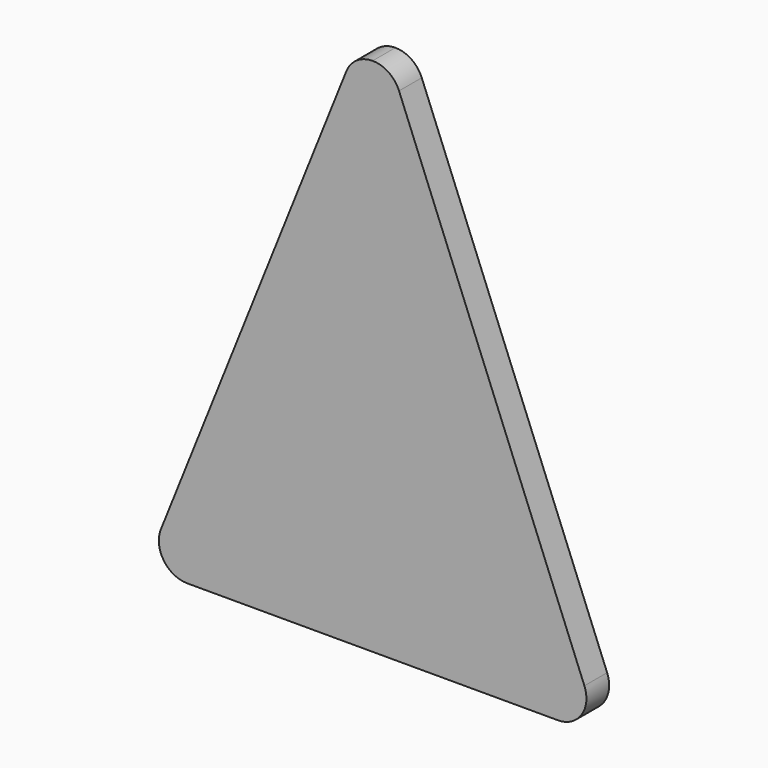
from build123d import *

# Parameters (mm, degrees)
F1_DEPTH = 6.35


with BuildPart() as f1:
    # F0 (on Front) → F1 (new body)
    with BuildSketch(Plane.XZ):
        with BuildLine():
            Line((19.232933, -52.804578), (19.232933, 63.447524))
            ThreePointArc((19.232933, 63.447524), (15.67294, 62.355751), (13.337106, 59.455854))
            Line((13.337106, 59.455854), (-28.083735, -44.096247))
            ThreePointArc((-28.083735, -44.096247), (-27.446135, -50.014571), (-22.187908, -52.804578))
            Line((-22.187908, -52.804578), (19.232933, -52.804578))
        make_face()
        with BuildLine():
            ThreePointArc((25.12876, 59.455854), (22.792926, 62.355751), (19.232933, 63.447524))
            Line((19.232933, 63.447524), (19.232933, -52.804578))
            Line((19.232933, -52.804578), (60.653774, -52.804578))
            ThreePointArc((60.653774, -52.804578), (65.912001, -50.014571), (66.549601, -44.096247))
            Line((66.549601, -44.096247), (25.12876, 59.455854))
        make_face()
    extrude(amount=F1_DEPTH)


solid = f1.part
